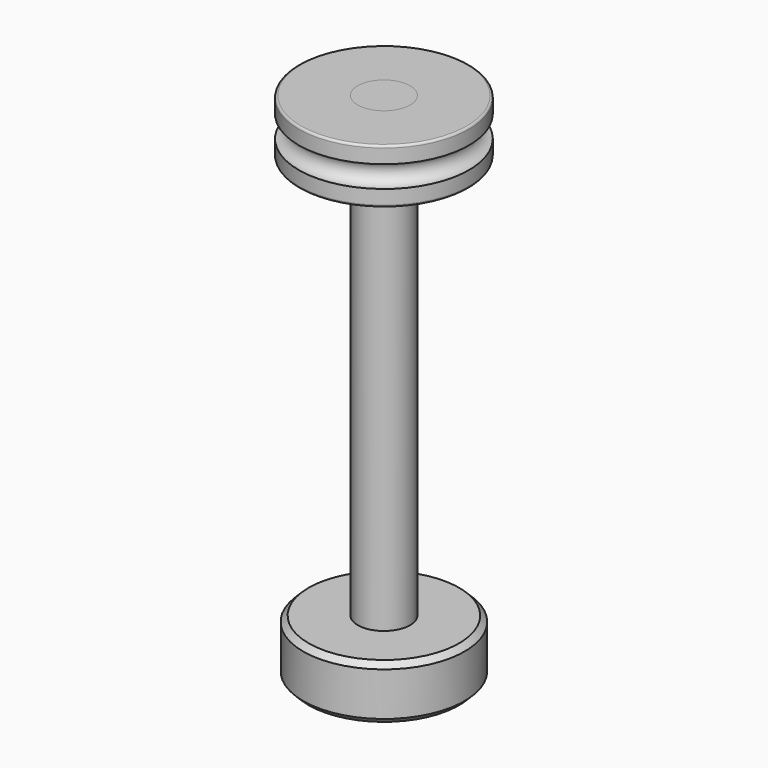
from build123d import *

# Parameters (mm, degrees)
F2_SIZE = 0.5
F4_R    = 0.2


with BuildPart() as f1:
    # F0 (on Front) → F1 (revolve)
    with BuildSketch(Plane.XZ):
        Polygon((-7.4, 0), (0, 0), (0, 47), (-2.4, 47), (-2.4, 42), (-2.4, 5), (-7.4, 5), align=None)
    revolve(axis=Axis((0, 0, 23.5), (0, 0, -1)))

    # F2
    f2_edges = [f1.edges().sort_by_distance(p)[0] for p in [
        (7.4, 0, 5),
        (7.4, 0, 0),
    ]]
    chamfer(f2_edges, length=F2_SIZE)


with BuildPart() as f3:
    # F0 (on Front) → F3 (revolve)
    with BuildSketch(Plane.XZ):
        with BuildLine():
            Line((-2.4, 42), (-2.4, 47))
            Line((-2.4, 47), (-7.8, 47))
            Line((-7.8, 47), (-7.8, 45.498962))
            ThreePointArc((-7.8, 45.498962), (-6.754443, 44.5), (-7.8, 43.501038))
            Line((-7.8, 43.501038), (-7.8, 42))
            Line((-7.8, 42), (-2.4, 42))
        make_face()
    revolve(axis=Axis((0, 0, 23.5), (0, 0, -1)))

    # F4
    f4_edges = [f3.edges().sort_by_distance(p)[0] for p in [
        (7.8, 0, 47),
        (7.8, 0, 42),
    ]]
    fillet(f4_edges, radius=F4_R)


solid = Compound([f1.part, f3.part])
